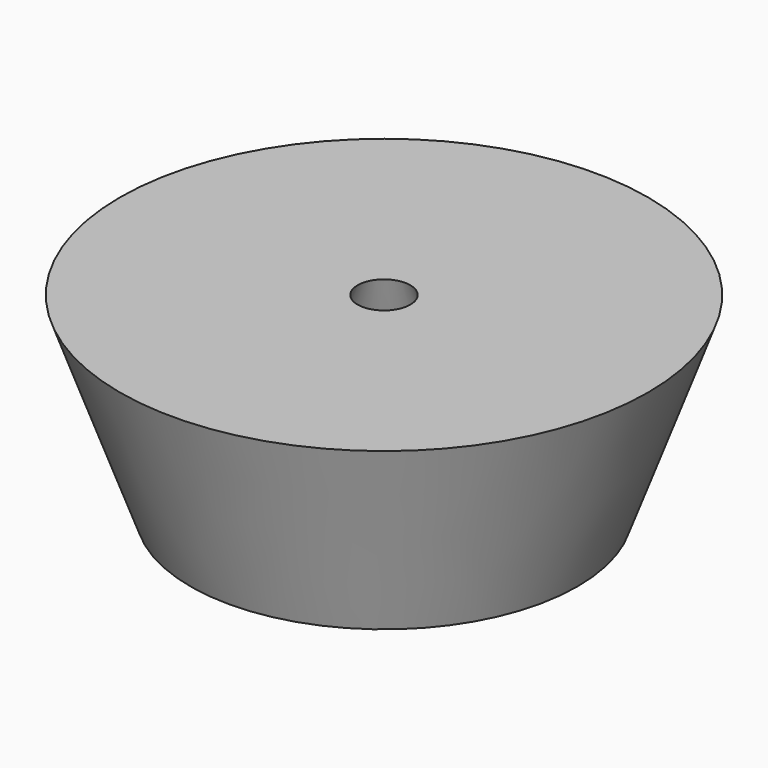
from build123d import *

# Parameters (mm, degrees)
F0_R     = 50.8
F0_R_2   = 25.4
F1_DEPTH = 50.8
F1_TAPER = -20


with BuildPart() as f1:
    # F0 (on Top) → F1 (new body)
    with BuildSketch(Plane.XY):
        Circle(F0_R)
        Circle(F0_R_2, mode=Mode.SUBTRACT)
    extrude(amount=F1_DEPTH, taper=F1_TAPER)


solid = f1.part
